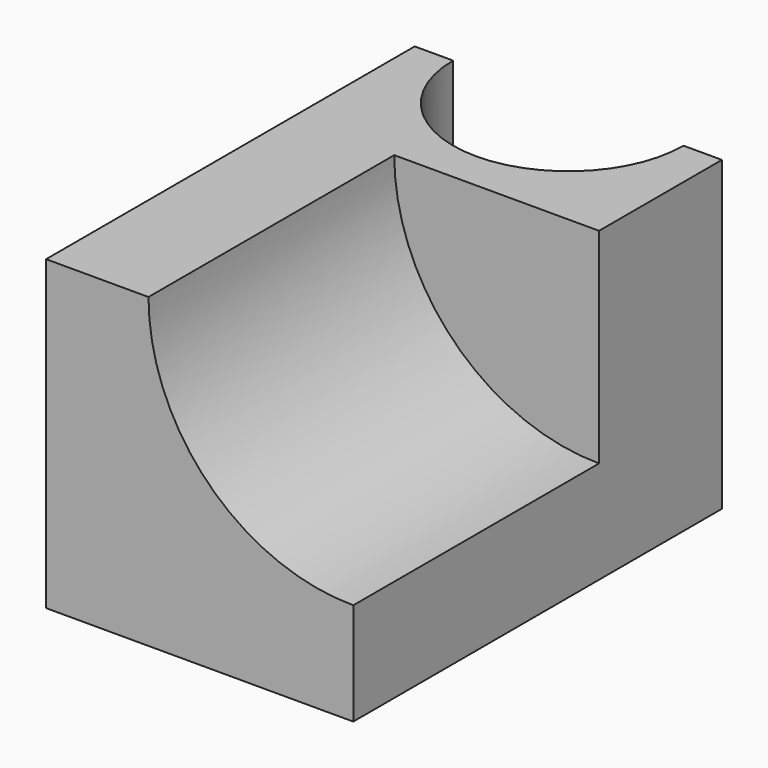
from build123d import *

# Parameters (mm, degrees)
F0_W     = 60
F0_H     = 90
F1_DEPTH = 60
F3_DEPTH = 60
F5_DEPTH = 60


with BuildPart() as f1:
    # F0 (on Top) → F1 (new body)
    with BuildSketch(Plane.XY):
        with Locations((30, 45)):
            Rectangle(F0_W, F0_H)
    extrude(amount=F1_DEPTH)

    # F2 (on Top) → F3 (cut)
    with BuildSketch(Plane.XY):
        with BuildLine():
            Line((30, 90), (7.5, 90))
            ThreePointArc((7.5, 90), (30, 67.5), (52.5, 90))
            Line((52.5, 90), (30, 90))
        make_face()
    extrude(amount=F3_DEPTH, mode=Mode.SUBTRACT)

    # F4 (on Front) → F5 (cut)
    with BuildSketch(Plane.XZ):
        with BuildLine():
            Line((60, 60), (20, 60))
            ThreePointArc((20, 60), (31.715729, 31.715729), (60, 20))
            Line((60, 20), (60, 60))
        make_face()
    extrude(amount=-F5_DEPTH, mode=Mode.SUBTRACT)


solid = f1.part
